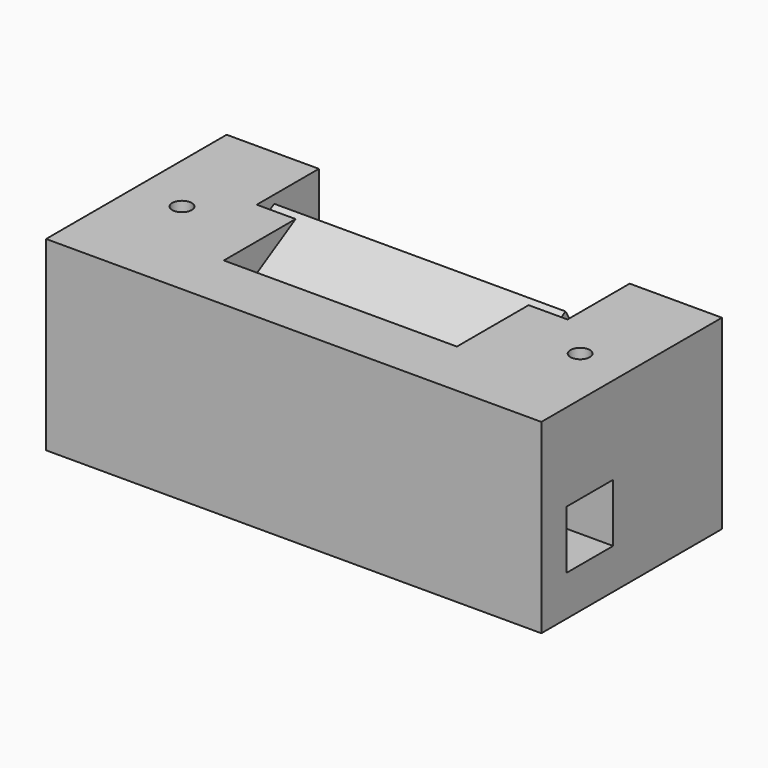
from build123d import *

# Parameters (mm, degrees)
F2_DEPTH = 15
F3_W     = 2
F3_H     = 3
F4_DEPTH = 16
F5_DEPTH = 12
F6_W     = 9.5
F6_H     = 23.2403810568
F6_R     = 1
F7_DEPTH = 19.1602540378
F8_W     = 6
F8_H     = 6
F9_DEPTH = 51.001


with BuildPart() as f2:
    # F1 (on Right) → F2 (new body, symmetric)
    with BuildSketch(Plane.YZ):
        Polygon((0, 0), (-8.6602540378, -5), (-3.6602540378, -13.6602540378), (5, -8.6602540378), align=None)
        Polygon((-3.6602540378, -13.6602540378), (-8.6602540378, -5), (-9.624355653, -11.3301270189), align=None)
    extrude(amount=F2_DEPTH, both=True)


with BuildPart() as f4:
    # F3 (on Right) → F4 (new body, symmetric)
    with BuildSketch(Plane.YZ):
        Polygon((-10.237604307, 0), (-16.2403810568, 0), (-16.2403810568, -19.1602540378), (7, -19.1602540378), (7, -9.8149545762), (5, -9.8149545762), (3, -9.8149545762), (-7.9903810568, -16.1602540378), (-13.2403810568, -7.0669872981), (-7.9282032303, -4), align=None)
        Polygon((-1, 0), (-10.237604307, 0), (-7.9282032303, -4), align=None)
        with Locations((6, -8.3149545762)):
            Rectangle(F3_W, F3_H)
    extrude(amount=F4_DEPTH, both=True)

    # F3 (on Right) → F5 (cut, symmetric)
    with BuildSketch(Plane.YZ):
        Polygon((-1, 0), (-10.237604307, 0), (-7.9282032303, -4), align=None)
        with Locations((6, -8.3149545762)):
            Rectangle(F3_W, F3_H)
    extrude(amount=F5_DEPTH, both=True, mode=Mode.SUBTRACT)

    # F6 (on face) → F7 (join, through all)
    with BuildSketch(Plane.XY):
        with Locations((20.75, -4.6201905284)):
            Rectangle(F6_W, F6_H)
        with Locations((20.5, -5)):
            Circle(F6_R, mode=Mode.SUBTRACT)
        with Locations((-20.75, -4.6201905284)):
            Rectangle(F6_W, F6_H)
        with Locations((-20.5, -5)):
            Circle(F6_R, mode=Mode.SUBTRACT)
    extrude(amount=-F7_DEPTH)

    # F8 (on face) → F9 (cut, through all)
    with BuildSketch(Plane(origin=(-25.5, 0, 0), x_dir=(0, -1, 0), z_dir=(-1, 0, 0))):
        with Locations((10, -12)):
            Rectangle(F8_W, F8_H)
    extrude(amount=-F9_DEPTH, mode=Mode.SUBTRACT)


solid = Compound([f2.part, f4.part])
